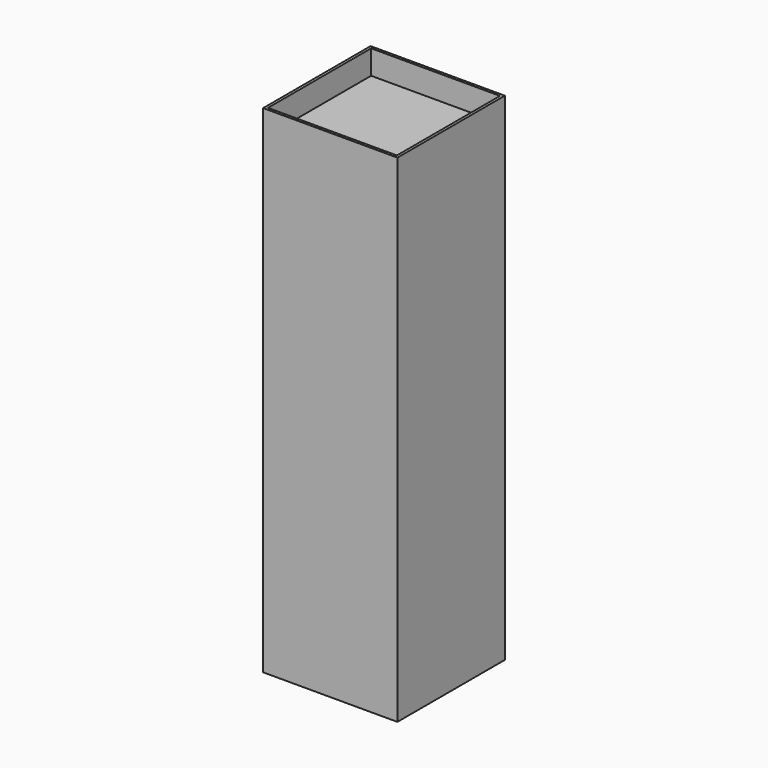
from build123d import *

# Parameters (mm, degrees)
F0_W     = 500
F0_H     = 500
F1_DEPTH = 1850
F2_W     = 480
F2_H     = 350
F3_DEPTH = 490
F4_W     = 480
F4_H     = 480
F5_DEPTH = 90


with BuildPart() as f1:
    # F0 (on Top) → F1 (new body)
    with BuildSketch(Plane.XY):
        with Locations((-250, 250)):
            Rectangle(F0_W, F0_H)
    extrude(amount=F1_DEPTH)

    # F2 (on face) → F3 (cut)
    with BuildSketch(Plane(origin=(0, 500, 0), x_dir=(-1, 0, 0), z_dir=(0, 1, 0))):
        with Locations((250, 1575)):
            Rectangle(F2_W, F2_H)
        with Locations((250, 1175)):
            Rectangle(F2_W, F2_H)
        with Locations((250, 775)):
            Rectangle(F2_W, F2_H)
        with Locations((250, 375)):
            Rectangle(F2_W, F2_H)
    extrude(amount=-F3_DEPTH, mode=Mode.SUBTRACT)

    # F4 (on face) → F5 (cut)
    with BuildSketch(Plane.XY.offset(1850)):
        with Locations((-250, 250)):
            Rectangle(F4_W, F4_H)
    extrude(amount=-F5_DEPTH, mode=Mode.SUBTRACT)


solid = f1.part
